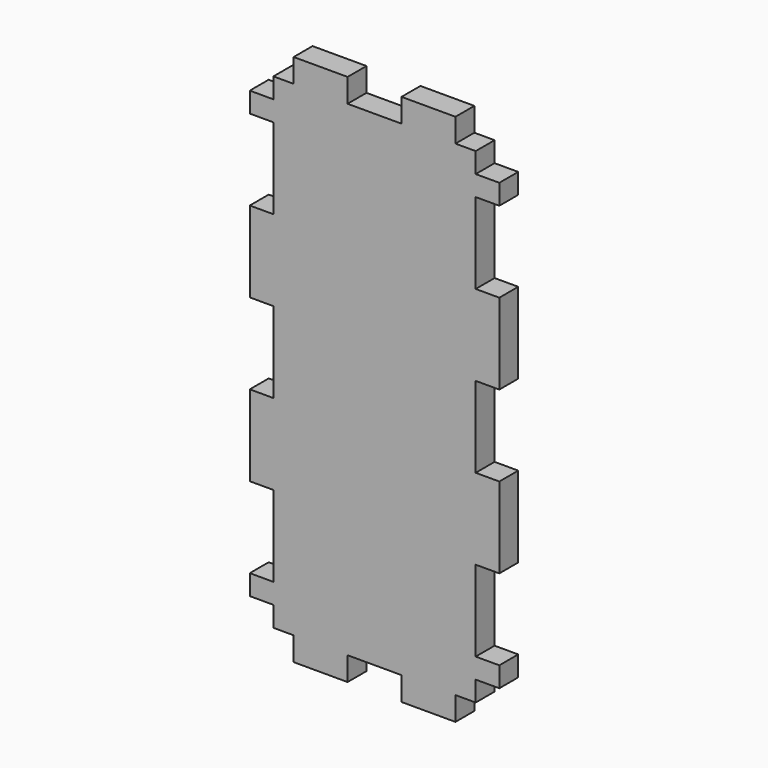
from build123d import *

# Parameters (mm, degrees)
F0_W     = 13.333333
F0_H     = 5.842
F0_W_2   = 5.842
F0_H_2   = 5
F0_H_3   = 20
F1_DEPTH = 5.842


with BuildPart() as f1:
    # F0 (on Front) → F1 (new body)
    with BuildSketch(Plane.XZ):
        Polygon((-20, 60), (-25, 60), (-25, 55), (-25, 50), (-25, 30), (-25, 10), (-25, -10), (-25, -30), (-25, -50), (-25, -55), (-25, -60), (-20, -60), (-6.666667, -60), (6.666667, -60), (20, -60), (25, -60), (25, -55), (25, -50), (25, -30), (25, -10), (25, 10), (25, 30), (25, 50), (25, 55), (25, 60), (20, 60), (6.666667, 60), (-6.666667, 60), align=None)
        with Locations((-13.333334, 62.921)):
            Rectangle(F0_W, F0_H)
        with Locations((-27.921, 52.5)):
            Rectangle(F0_W_2, F0_H_2)
        with Locations((13.333334, 62.921)):
            Rectangle(F0_W, F0_H)
        with Locations((-27.921, 20)):
            Rectangle(F0_W_2, F0_H_3)
        with Locations((-27.921, -20)):
            Rectangle(F0_W_2, F0_H_3)
        with Locations((27.921, 52.5)):
            Rectangle(F0_W_2, F0_H_2)
        with Locations((-27.921, -52.5)):
            Rectangle(F0_W_2, F0_H_2)
        with Locations((27.921, 20)):
            Rectangle(F0_W_2, F0_H_3)
        with Locations((27.921, -20)):
            Rectangle(F0_W_2, F0_H_3)
        with Locations((-13.333334, -62.921)):
            Rectangle(F0_W, F0_H)
        with Locations((27.921, -52.5)):
            Rectangle(F0_W_2, F0_H_2)
        with Locations((13.333334, -62.921)):
            Rectangle(F0_W, F0_H)
    extrude(amount=F1_DEPTH)


solid = f1.part
